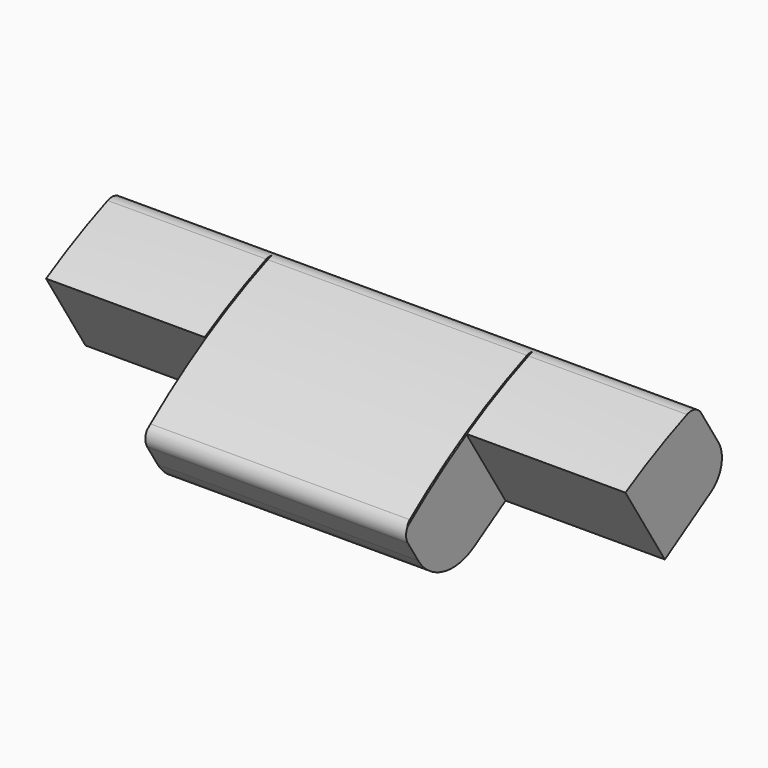
from build123d import *

# Parameters (mm, degrees)
PAD012_DEPTH    = 10
SKETCH061_W     = 3.35
SKETCH061_H     = 5.5
POCKET011_DEPTH = 5.7141437505


with BuildPart() as part:
    # Sketch059 → Pad012 (new body, symmetric)
    with BuildSketch(Plane.YZ):
        with BuildLine():
            ThreePointArc((-21.8787366497, 7.7856764323), (-24.5162755283, 6.5038208287), (-26.9380130719, 4.8500516808))
            ThreePointArc((-26.9380130719, 4.8500516808), (-27.1193333278, 4.5434596832), (-27.0505550432, 4.1939668567))
            Line((-27.0505550432, 4.1939668567), (-26.6017940465, 3.4757991384))
            ThreePointArc((-26.6017940465, 3.4757991384), (-25.5113742234, 2.6980102375), (-24.1903511659, 2.9190736826))
            Line((-24.1903511659, 2.9190736826), (-20.840561186, 5.0122547763))
            ThreePointArc((-20.840561186, 5.0122547763), (-20.3961103855, 5.6353518181), (-20.5224323541, 6.3902221367))
            Line((-21.2697124354, 7.5861202536), (-20.5224323541, 6.3902221367))
            ThreePointArc((-21.2697124354, 7.5861202536), (-21.5380484263, 7.7963039987), (-21.8787366497, 7.7856764323))
        make_face()
    extrude(amount=PAD012_DEPTH, both=True)

    # Sketch061 (on Face6 of Pad012) → Pocket011 (cut, through all)
    with BuildSketch(Plane(origin=(0, -8.1048226153, 12.9704274831), x_dir=(0, 0.8480480962, 0.5299192642), z_dir=(0, 0.5299192642, -0.8480480962))):
        with Locations((-19.0427078734, 7.25)):
            Rectangle(SKETCH061_W, SKETCH061_H)
        with Locations((-19.0427078734, -7.25)):
            Rectangle(SKETCH061_W, SKETCH061_H)
    extrude(amount=-POCKET011_DEPTH, mode=Mode.SUBTRACT)

    # SubtractivePipe002: sweep along a path in Sketch063
    with BuildLine(Plane.YZ.offset(4.5)) as subtractivepipe002_path:
        ThreePointArc((-21.4885664226, 7.9363598462), (-24.5285349663, 6.4967015301), (-27.284244153, 4.5679476082))
    # Sketch062 (on DatumPlane) → SubtractivePipe002 (sweep, cut)
    with BuildSketch(Plane(origin=(4.5, -26.9380130719, 4.8500516808), x_dir=(0, -0.6229641536, 0.782250384), z_dir=(0, -0.782250384, -0.6229641536))):
        Polygon((0, -0.025), (0, 0.025), (-0.0433012702, 0), align=None)
    subtractivepipe002 = sweep(path=subtractivepipe002_path.line, mode=Mode.SUBTRACT)

    # Mirrored002: SubtractivePipe002 across YZ
    add(subtractivepipe002.mirror(Plane.YZ), mode=Mode.SUBTRACT)


solid = part.part
